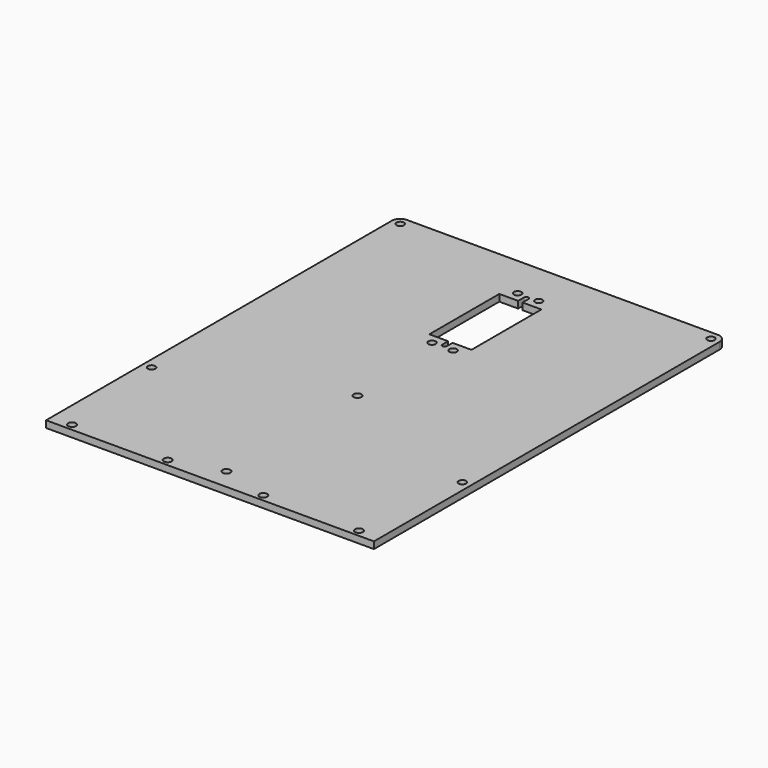
from build123d import *

# Parameters (mm, degrees)
F0_W     = 152.4
F0_H     = 204.7875
F0_R     = 1.8288
F0_R_2   = 1.7272
F1_DEPTH = 3.175
F2_R     = 3.96875


with BuildPart() as f1:
    # F0 (on Top) → F1 (new body)
    with BuildSketch(Plane.XY):
        with Locations((0, -26.19375)):
            Rectangle(F0_W, F0_H)
        with Locations((-66.675, -125.4125)):
            Circle(F0_R, mode=Mode.SUBTRACT)
        with Locations((-22.225, -125.4125)):
            Circle(F0_R, mode=Mode.SUBTRACT)
        with Locations((-72.23125, -72.23125)):
            Circle(F0_R_2, mode=Mode.SUBTRACT)
        with Locations((0, -119.0625)):
            Circle(F0_R, mode=Mode.SUBTRACT)
        with Locations((22.225, -125.4125)):
            Circle(F0_R, mode=Mode.SUBTRACT)
        with Locations((66.675, -125.4125)):
            Circle(F0_R, mode=Mode.SUBTRACT)
        with Locations((0, -42.8625)):
            Circle(F0_R, mode=Mode.SUBTRACT)
        with Locations((72.23125, -72.23125)):
            Circle(F0_R_2, mode=Mode.SUBTRACT)
        with Locations((-4.8895, 6.528203)):
            Circle(F0_R_2, mode=Mode.SUBTRACT)
        with Locations((-72.23125, 72.23125)):
            Circle(F0_R_2, mode=Mode.SUBTRACT)
        with Locations((-4.8895, 56.312203)):
            Circle(F0_R_2, mode=Mode.SUBTRACT)
        with Locations((4.8895, 6.528203)):
            Circle(F0_R_2, mode=Mode.SUBTRACT)
        with BuildLine():
            Line((1.016, 55.169203), (1.016, 51.740203))
            Line((1.016, 51.740203), (9.779, 51.740203))
            Line((9.779, 51.740203), (9.779, 11.100203))
            Line((9.779, 11.100203), (1.016, 11.100203))
            Line((1.016, 11.100203), (1.016, 7.671203))
            ThreePointArc((1.016, 7.671203), (0, 6.655203), (-1.016, 7.671203))
            Line((-1.016, 7.671203), (-1.016, 11.100203))
            Line((-1.016, 11.100203), (-9.779, 11.100203))
            Line((-9.779, 11.100203), (-9.779, 51.740203))
            Line((-9.779, 51.740203), (-1.016, 51.740203))
            Line((-1.016, 51.740203), (-1.016, 55.169203))
            ThreePointArc((-1.016, 55.169203), (0, 56.185203), (1.016, 55.169203))
        make_face(mode=Mode.SUBTRACT)
        with Locations((4.8895, 56.312203)):
            Circle(F0_R_2, mode=Mode.SUBTRACT)
        with Locations((72.23125, 72.23125)):
            Circle(F0_R_2, mode=Mode.SUBTRACT)
    extrude(amount=F1_DEPTH)

    # F2
    f2_edges = [f1.edges().sort_by_distance(p)[0] for p in [
        (-76.2, 76.2, 1.5875),
        (76.2, 76.2, 1.5875),
    ]]
    fillet(f2_edges, radius=F2_R)


solid = f1.part
